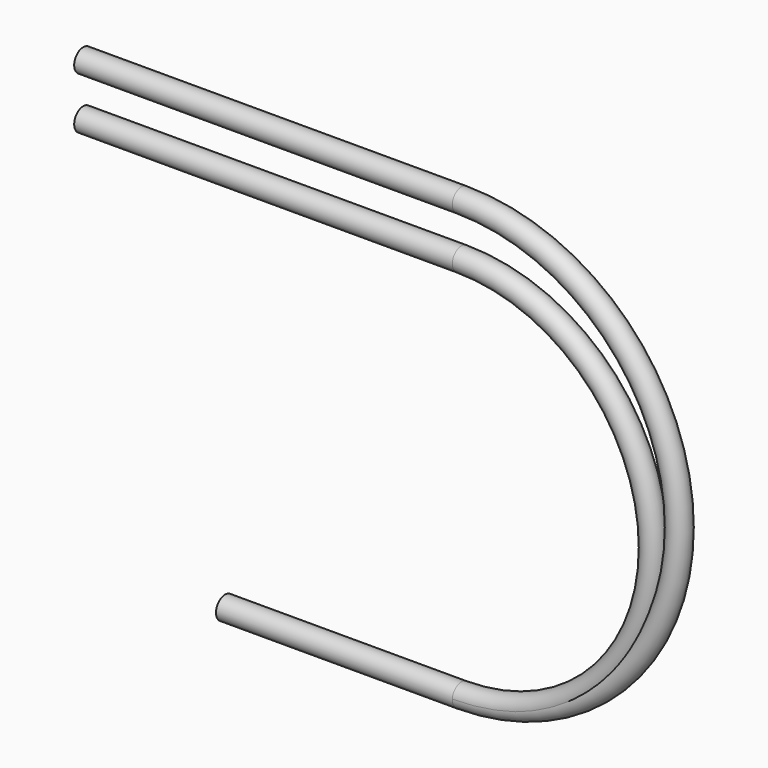
from build123d import *

# Parameters (mm, degrees)
F1_R = 1.2


with BuildPart() as f2:
    # F2: sweep along a path in F0
    with BuildLine(Plane.XZ) as f2_path:
        Line((0, 0), (25, 0))
        ThreePointArc((25, 0), (45.3, 20.3), (25, 40.6))
        Line((25, 40.6), (-15, 40.6))
    # F1 (on Right) → F2 (sweep)
    with BuildSketch(Plane.YZ):
        Circle(F1_R)
    sweep(path=f2_path.line)


with BuildPart() as f3:
    # F3: sweep along a path in F0
    with BuildLine(Plane.XZ) as f3_path:
        Line((0, 0), (25, 0))
        ThreePointArc((25, 0), (48.05, 23.05), (25, 46.1))
        Line((25, 46.1), (-15, 46.1))
    # F1 (on Right) → F3 (sweep)
    with BuildSketch(Plane.YZ):
        Circle(F1_R)
    sweep(path=f3_path.line)


solid = Compound([f2.part, f3.part])
